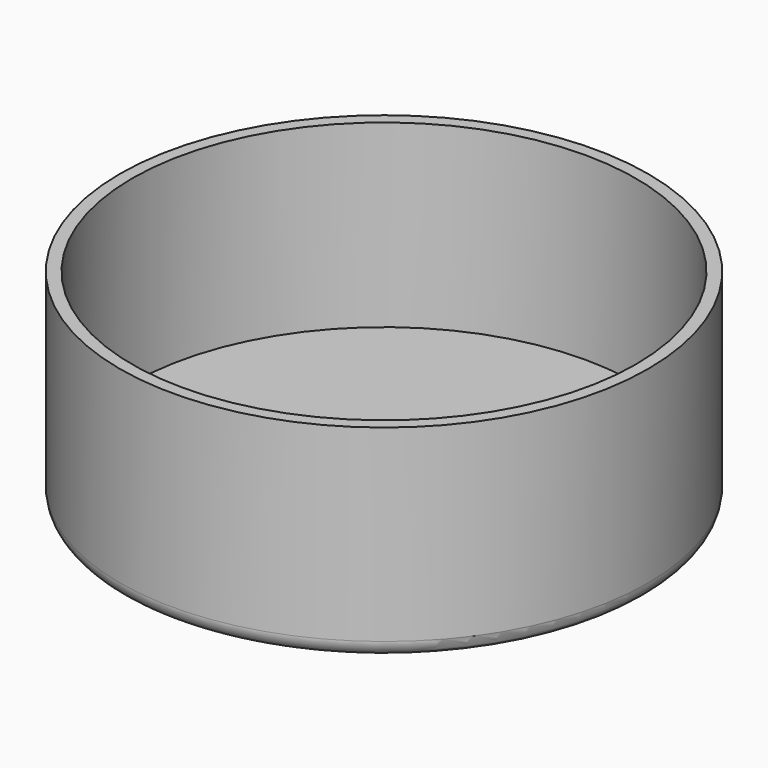
from build123d import *

# Parameters (mm, degrees)
F0_R     = 32.25
F0_R_2   = 30.75
F1_DEPTH = 22
F2_R     = 32.25
F3_DEPTH = 3
F4_R     = 2


with BuildPart() as f1:
    # F0 (on Top) → F1 (new body)
    with BuildSketch(Plane.XY):
        Circle(F0_R)
        Circle(F0_R_2, mode=Mode.SUBTRACT)
    extrude(amount=F1_DEPTH)

    # F2 (on Top) → F3 (join)
    with BuildSketch(Plane.XY):
        Circle(F2_R)
    extrude(amount=-F3_DEPTH)

    # F4
    f4_edges = [f1.edges().sort_by_distance(p)[0] for p in [
        (-32.25, 0, -3),
    ]]
    fillet(f4_edges, radius=F4_R)


solid = f1.part
